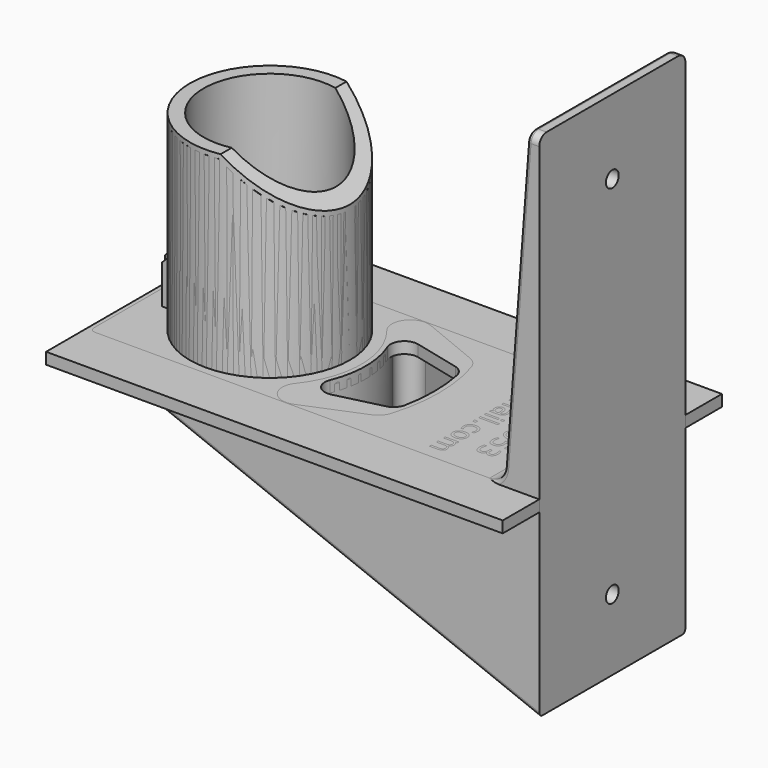
from build123d import *

# Parameters (mm, degrees)
SKETCH_R             = 20
PAD_DEPTH            = 2.5
SKETCH001_R          = 17.5
PAD001_DEPTH         = 42
POCKET_DEPTH         = 20.001
POCKET_DEPTH_BACK    = 20.001
SKETCH003_W          = 2
SKETCH003_H          = 21
POCKET001_DEPTH      = 2.3
SKETCH004_W          = 2
SKETCH004_H          = 11
PAD002_DEPTH         = 5
CHAMFER_SIZE         = 2
SKETCH005_R          = 26.580521
SKETCH005_R_2        = 20
POCKET002_DEPTH      = 11
SKETCH006_R          = 15
POCKET003_DEPTH      = 42
CHAMFER001_SIZE      = 1
SKETCH007_W          = 100
SKETCH007_H          = 60
PAD003_DEPTH         = 2.5
FILLET_R             = 3
SKETCH011_R          = 17.5
SKETCH011_R_2        = 14.5
PAD004_DEPTH         = 42
POCKET004_DEPTH      = 17.501
POCKET004_DEPTH_BACK = 17.501
PAD005_DEPTH         = 20
POCKET005_DEPTH      = 16
SKETCH015_R          = 1.75
POCKET006_DEPTH      = 100.001
SKETCH016_R          = 4.727312
POCKET007_DEPTH      = 96.701
FILLET001_R          = 4
FILLET002_R          = 2
PAD006_DEPTH         = 4.5
SKETCH018_W          = 4.5
SKETCH018_H          = 21
POCKET008_DEPTH      = 2.25
FILLET003_R          = 3
FILLET004_R          = 1
FILLET005_R          = 0.85
SKETCH019_W          = 3.005714
SKETCH019_H          = 0.492857
SKETCH019_W_2        = 0.628572
SKETCH019_W_3        = 4.171429
SKETCH019_W_4        = 0.685714
SKETCH019_H_2        = 0.565179
POCKET009_DEPTH      = 1


with BuildPart() as body:
    # Sketch → Pad (new body)
    with BuildSketch(Plane.XY):
        Circle(SKETCH_R)
    extrude(amount=-PAD_DEPTH)

    # Sketch001 → Pad001 (join)
    with BuildSketch(Plane.XY):
        Circle(SKETCH001_R)
    extrude(amount=PAD001_DEPTH)

    # Sketch002 → Pocket (cut, two sides)
    with BuildSketch(Plane.XZ) as pocket_sk:
        Polygon((3, 42), (17.5, 30), (20.433489, 30), (20.433489, 42), align=None)
        Polygon((-17.5, 39.4), (-16, 39.4), (-17.5, 26), align=None)
    extrude(amount=-POCKET_DEPTH, mode=Mode.SUBTRACT)
    extrude(pocket_sk.sketch, amount=POCKET_DEPTH_BACK, mode=Mode.SUBTRACT)

    # Sketch003 → Pocket001 (cut, symmetric)
    with BuildSketch(Plane.XZ):
        with Locations((-16.5, 10.5)):
            Rectangle(SKETCH003_W, SKETCH003_H)
    extrude(amount=POCKET001_DEPTH, both=True, mode=Mode.SUBTRACT)

    # Sketch004 (on Face12 of Pocket001) → Pad002 (join)
    with BuildSketch(Plane(origin=(-15.5, 0, 0), x_dir=(0, -1, 0), z_dir=(-1, 0, 0))):
        with Locations((-3.3, 5.5)):
            Rectangle(SKETCH004_W, SKETCH004_H)
        with Locations((3.3, 5.5)):
            Rectangle(SKETCH004_W, SKETCH004_H)
    extrude(amount=PAD002_DEPTH)

    # Chamfer
    chamfer_edges = [body.edges().sort_by_distance(p)[0] for p in [
        (-20.5, -3.3, 11),
        (-20.5, 3.3, 11),
    ]]
    chamfer(chamfer_edges, length=CHAMFER_SIZE)

    # Sketch005 → Pocket002 (cut)
    with BuildSketch(Plane.XY):
        Circle(SKETCH005_R)
        Circle(SKETCH005_R_2, mode=Mode.SUBTRACT)
    extrude(amount=POCKET002_DEPTH, mode=Mode.SUBTRACT)

    # Sketch006 (on Face12 of Pocket002) → Pocket003 (cut)
    with BuildSketch(Plane.XY.offset(42)):
        Circle(SKETCH006_R)
    extrude(amount=-POCKET003_DEPTH, mode=Mode.SUBTRACT)

    # Chamfer001
    chamfer001_edges = [body.edges().sort_by_distance(p)[0] for p in [
        (-17.5, 0, 42),
        (12.767731, -11.968084, 33.91636),
    ]]
    chamfer(chamfer001_edges, length=CHAMFER001_SIZE)

    # Sketch007 → Pad003 (join)
    with BuildSketch(Plane.XY):
        with Locations((25, 0)):
            Rectangle(SKETCH007_W, SKETCH007_H)
        with BuildLine():
            ThreePointArc((19.467521, -7.875), (21, 0), (19.467521, 7.875))
            ThreePointArc((22.962414, 11.91384), (19.980018, 10.963048), (19.467521, 7.875))
            Line((22.962414, 11.91384), (34.85685, 9))
            ThreePointArc((34.85685, -9), (36, 0), (34.85685, 9))
            Line((34.85685, -9), (22.962414, -11.91384))
            ThreePointArc((19.467521, -7.875), (19.980018, -10.963048), (22.962414, -11.91384))
        make_face(mode=Mode.SUBTRACT)
    extrude(amount=-PAD003_DEPTH)

    # Fillet
    fillet_edges = [body.edges().sort_by_distance(p)[0] for p in [
        (34.85685, 9, -1.25),
        (34.85685, -9, -1.25),
    ]]
    fillet(fillet_edges, radius=FILLET_R)


with BuildPart() as body001:
    # Sketch011 → Pad004 (new body)
    with BuildSketch(Plane.XY):
        Circle(SKETCH011_R)
        Circle(SKETCH011_R_2, mode=Mode.SUBTRACT)
    extrude(amount=PAD004_DEPTH)

    # Sketch012 → Pocket004 (cut, two sides)
    with BuildSketch(Plane.XZ) as pocket004_sk:
        Polygon((-17.863381, 39.4), (-17.863381, 26), (-15.863381, 39.4), align=None)
        Polygon((3, 42), (17.5, 30), (17.5, 42), align=None)
    extrude(amount=-POCKET004_DEPTH, mode=Mode.SUBTRACT)
    extrude(pocket004_sk.sketch, amount=POCKET004_DEPTH_BACK, mode=Mode.SUBTRACT)

    # Sketch013 → Pad005 (join, symmetric)
    with BuildSketch(Plane.XZ):
        Polygon((-25, 0), (-25, -2.5), (75, -42), (75, 0), (75, 70), (72.5, 70), (67.167522, 0), align=None)
    extrude(amount=PAD005_DEPTH, both=True)

    # Sketch014 → Pocket005 (cut)
    with BuildSketch(Plane.XY):
        with BuildLine():
            ThreePointArc((19.874379, 17.775212), (16.333408, 16.797884), (16.39312, 13.125))
            ThreePointArc((16.39312, -13.125), (21, 0), (16.39312, 13.125))
            ThreePointArc((16.39312, -13.125), (16.333408, -16.797884), (19.874379, -17.775212))
            Line((19.874379, -17.775212), (33.941125, -12))
            ThreePointArc((33.941125, -12), (36, 0), (33.941125, 12))
            Line((19.874379, 17.775212), (33.941125, 12))
        make_face()
    extrude(amount=-POCKET005_DEPTH, mode=Mode.SUBTRACT)

    # Sketch015 (on Face21 of Pocket005) → Pocket006 (cut, through all)
    with BuildSketch(Plane.YZ.offset(75)):
        with Locations((0, 53.638371)):
            Circle(SKETCH015_R)
        with Locations((0, -26.428391)):
            Circle(SKETCH015_R)
    extrude(amount=-POCKET006_DEPTH, mode=Mode.SUBTRACT)

    # Sketch016 (on Face22 of Pocket006) → Pocket007 (cut, through all)
    with BuildSketch(Plane.YZ.offset(71.7)):
        with Locations((0, 53.638371)):
            Circle(SKETCH016_R)
        with Locations((0, -26.428391)):
            Circle(SKETCH016_R)
    extrude(amount=-POCKET007_DEPTH, mode=Mode.SUBTRACT)

    # Fillet001
    fillet001_edges = [body001.edges().sort_by_distance(p)[0] for p in [
        (67.167522, 0, 0),
    ]]
    fillet(fillet001_edges, radius=FILLET001_R)

    # Fillet002
    fillet002_edges = [body001.edges().sort_by_distance(p)[0] for p in [
        (73.75, -20, 70),
        (73.75, 20, 70),
        (-25, 20, -1.25),
        (-25, -20, -1.25),
    ]]
    fillet(fillet002_edges, radius=FILLET002_R)

    # Sketch017 → Pad006 (join, symmetric)
    with BuildSketch(Plane.XZ):
        Polygon((-17.5, 11), (-20, 8.5), (-20, 0), (-17.5, 0), (-16.353695, 0), (-16.353695, 10.941071), align=None)
    extrude(amount=PAD006_DEPTH, both=True)

    # Sketch018 → Pocket008 (cut, symmetric)
    with BuildSketch(Plane.XZ):
        with Locations((-17.75, 10.5)):
            Rectangle(SKETCH018_W, SKETCH018_H)
    extrude(amount=POCKET008_DEPTH, both=True, mode=Mode.SUBTRACT)

    # Fillet003
    fillet003_edges = [body001.edges().sort_by_distance(p)[0] for p in [
        (33.941125, 12, -8),
        (33.941125, -12, -8),
    ]]
    fillet(fillet003_edges, radius=FILLET003_R)

    # Fillet004
    fillet004_edges = [body001.edges().sort_by_distance(p)[0] for p in [
        (21, 0, 0),
    ]]
    fillet(fillet004_edges, radius=FILLET004_R)

    # Fillet005
    fillet005_edges = [body001.edges().sort_by_distance(p)[0] for p in [
        (26, 20, -22.645),
        (20.230323, 20, 0),
    ]]
    fillet(fillet005_edges, radius=FILLET005_R)

    # Sketch019 → Pocket009 (cut)
    with BuildSketch(Plane.XY):
        with BuildLine():
            Line((57.914286, 9.867857), (57.445714, 9.867857))
            add(Edge.make_bspline(
                [(57.445714, 9.867857), (57.554286, 10.076786), (57.608571, 10.301786)],
                knots=[0, 0, 0, 1, 1, 1], degree=2))
            add(Edge.make_bspline(
                [(57.608571, 10.301786), (57.662857, 10.526786), (57.662857, 10.767857)],
                knots=[0, 0, 0, 1, 1, 1], degree=2))
            add(Edge.make_bspline(
                [(57.662857, 10.767857), (57.662857, 11.134821), (57.549821, 11.318393)],
                knots=[0, 0, 0, 1, 1, 1], degree=2))
            add(Edge.make_bspline(
                [(57.549821, 11.318393), (57.436964, 11.501786), (57.211071, 11.501786)],
                knots=[0, 0, 0, 1, 1, 1], degree=2))
            add(Edge.make_bspline(
                [(57.211071, 11.501786), (57.038929, 11.501786), (56.940714, 11.370536)],
                knots=[0, 0, 0, 1, 1, 1], degree=2))
            add(Edge.make_bspline(
                [(56.940714, 11.370536), (56.842679, 11.239286), (56.753929, 10.842857)],
                knots=[0, 0, 0, 1, 1, 1], degree=2))
            Line((56.753929, 10.842857), (56.716429, 10.674107))
            add(Edge.make_bspline(
                [(56.716429, 10.674107), (56.60375, 10.149107), (56.398571, 9.928214)],
                knots=[0, 0, 0, 1, 1, 1], degree=2))
            add(Edge.make_bspline(
                [(56.398571, 9.928214), (56.193571, 9.707143), (55.82625, 9.707143)],
                knots=[0, 0, 0, 1, 1, 1], degree=2))
            add(Edge.make_bspline(
                [(55.82625, 9.707143), (55.408036, 9.707143), (55.163929, 10.038036)],
                knots=[0, 0, 0, 1, 1, 1], degree=2))
            add(Edge.make_bspline(
                [(55.163929, 10.038036), (54.92, 10.36875), (54.92, 10.947321)],
                knots=[0, 0, 0, 1, 1, 1], degree=2))
            add(Edge.make_bspline(
                [(54.92, 10.947321), (54.92, 11.188393), (54.965714, 11.449643)],
                knots=[0, 0, 0, 1, 1, 1], degree=2))
            add(Edge.make_bspline(
                [(54.965714, 11.449643), (55.011429, 11.710714), (55.102857, 12)],
                knots=[0, 0, 0, 1, 1, 1], degree=2))
            Line((55.102857, 12), (55.617143, 12))
            add(Edge.make_bspline(
                [(55.617143, 12), (55.474286, 11.726786), (55.402857, 11.461607)],
                knots=[0, 0, 0, 1, 1, 1], degree=2))
            add(Edge.make_bspline(
                [(55.402857, 11.461607), (55.331429, 11.196428), (55.331429, 10.936607)],
                knots=[0, 0, 0, 1, 1, 1], degree=2))
            add(Edge.make_bspline(
                [(55.331429, 10.936607), (55.331429, 10.588393), (55.450893, 10.400893)],
                knots=[0, 0, 0, 1, 1, 1], degree=2))
            add(Edge.make_bspline(
                [(55.450893, 10.400893), (55.570357, 10.213393), (55.788036, 10.213393)],
                knots=[0, 0, 0, 1, 1, 1], degree=2))
            add(Edge.make_bspline(
                [(55.788036, 10.213393), (55.989286, 10.213393), (56.096786, 10.34875)],
                knots=[0, 0, 0, 1, 1, 1], degree=2))
            add(Edge.make_bspline(
                [(56.096786, 10.34875), (56.204286, 10.483928), (56.303571, 10.941964)],
                knots=[0, 0, 0, 1, 1, 1], degree=2))
            Line((56.303571, 10.941964), (56.34375, 11.113393))
            add(Edge.make_bspline(
                [(56.34375, 11.113393), (56.440357, 11.571428), (56.640179, 11.775)],
                knots=[0, 0, 0, 1, 1, 1], degree=2))
            add(Edge.make_bspline(
                [(56.640179, 11.775), (56.840179, 11.978571), (57.188929, 11.978571)],
                knots=[0, 0, 0, 1, 1, 1], degree=2))
            add(Edge.make_bspline(
                [(57.188929, 11.978571), (57.612857, 11.978571), (57.843571, 11.678571)],
                knots=[0, 0, 0, 1, 1, 1], degree=2))
            add(Edge.make_bspline(
                [(57.843571, 11.678571), (58.074286, 11.378571), (58.074286, 10.826786)],
                knots=[0, 0, 0, 1, 1, 1], degree=2))
            add(Edge.make_bspline(
                [(58.074286, 10.826786), (58.074286, 10.553571), (58.034286, 10.3125)],
                knots=[0, 0, 0, 1, 1, 1], degree=2))
            add(Edge.make_bspline(
                [(58.034286, 10.3125), (57.994286, 10.071428), (57.914286, 9.867857)],
                knots=[0, 0, 0, 1, 1, 1], degree=2))
        make_face()
        with BuildLine():
            Line((56.625714, 6.357143), (56.382857, 6.357143))
            Line((56.382857, 6.357143), (56.382857, 8.623214))
            add(Edge.make_bspline(
                [(56.382857, 8.623214), (55.874821, 8.591071), (55.60875, 8.316607)],
                knots=[0, 0, 0, 1, 1, 1], degree=2))
            add(Edge.make_bspline(
                [(55.60875, 8.316607), (55.342857, 8.041964), (55.342857, 7.551786)],
                knots=[0, 0, 0, 1, 1, 1], degree=2))
            add(Edge.make_bspline(
                [(55.342857, 7.551786), (55.342857, 7.267857), (55.411429, 7.001428)],
                knots=[0, 0, 0, 1, 1, 1], degree=2))
            add(Edge.make_bspline(
                [(55.411429, 7.001428), (55.48, 6.734821), (55.617143, 6.472321)],
                knots=[0, 0, 0, 1, 1, 1], degree=2))
            Line((55.617143, 6.472321), (55.148571, 6.472321))
            add(Edge.make_bspline(
                [(55.148571, 6.472321), (55.036964, 6.7375), (54.978571, 7.016071)],
                knots=[0, 0, 0, 1, 1, 1], degree=2))
            add(Edge.make_bspline(
                [(54.978571, 7.016071), (54.92, 7.294643), (54.92, 7.58125)],
                knots=[0, 0, 0, 1, 1, 1], degree=2))
            add(Edge.make_bspline(
                [(54.92, 7.58125), (54.92, 8.299107), (55.338393, 8.718393)],
                knots=[0, 0, 0, 1, 1, 1], degree=2))
            add(Edge.make_bspline(
                [(55.338393, 8.718393), (55.756786, 9.1375), (56.470357, 9.1375)],
                knots=[0, 0, 0, 1, 1, 1], degree=2))
            add(Edge.make_bspline(
                [(56.470357, 9.1375), (57.207857, 9.1375), (57.641071, 8.739821)],
                knots=[0, 0, 0, 1, 1, 1], degree=2))
            add(Edge.make_bspline(
                [(57.641071, 8.739821), (58.074286, 8.341964), (58.074286, 7.666964)],
                knots=[0, 0, 0, 1, 1, 1], degree=2))
            add(Edge.make_bspline(
                [(58.074286, 7.666964), (58.074286, 7.061607), (57.684643, 6.709464)],
                knots=[0, 0, 0, 1, 1, 1], degree=2))
            add(Edge.make_bspline(
                [(57.684643, 6.709464), (57.295179, 6.357143), (56.625714, 6.357143)],
                knots=[0, 0, 0, 1, 1, 1], degree=2))
        make_face()
        with BuildLine():
            add(Edge.make_bspline(
                [(56.771429, 6.85), (57.172857, 6.855357), (57.412143, 7.076428)],
                knots=[0, 0, 0, 1, 1, 1], degree=2))
            add(Edge.make_bspline(
                [(57.412143, 7.076428), (57.651429, 7.297321), (57.651429, 7.661607)],
                knots=[0, 0, 0, 1, 1, 1], degree=2))
            add(Edge.make_bspline(
                [(57.651429, 7.661607), (57.651429, 8.074107), (57.42, 8.321964)],
                knots=[0, 0, 0, 1, 1, 1], degree=2))
            add(Edge.make_bspline(
                [(57.42, 8.321964), (57.18875, 8.569643), (56.76875, 8.607143)],
                knots=[0, 0, 0, 1, 1, 1], degree=2))
            Line((56.76875, 8.607143), (56.771429, 6.85))
        make_face(mode=Mode.SUBTRACT)
        Polygon((59.171429, 5.570536), (59.171429, 5.075), (56.709464, 5.075), (58.005714, 3.604464), (58.005714, 2.975), (56.599464, 4.566071), (55, 2.908036), (55, 3.550893), (56.468036, 5.075), (55, 5.075), (55, 5.570536), align=None)
        with BuildLine():
            Line((58.862857, 1.887143), (58.005714, 1.887143))
            Line((58.005714, 1.887143), (58.005714, 0.871964))
            Line((58.005714, 0.871964), (57.617143, 0.871964))
            Line((57.617143, 0.871964), (57.617143, 1.887143))
            Line((57.617143, 1.887143), (55.987679, 1.887143))
            add(Edge.make_bspline(
                [(55.987679, 1.887143), (55.620536, 1.887143), (55.515893, 1.786786)],
                knots=[0, 0, 0, 1, 1, 1], degree=2))
            add(Edge.make_bspline(
                [(55.515893, 1.786786), (55.411429, 1.68625), (55.411429, 1.378214)],
                knots=[0, 0, 0, 1, 1, 1], degree=2))
            Line((55.411429, 1.378214), (55.411429, 0.871964))
            Line((55.411429, 0.871964), (55, 0.871964))
            Line((55, 0.871964), (55, 1.378214))
            add(Edge.make_bspline(
                [(55, 1.378214), (55, 1.94875), (55.212679, 2.165714)],
                knots=[0, 0, 0, 1, 1, 1], degree=2))
            add(Edge.make_bspline(
                [(55.212679, 2.165714), (55.425536, 2.382678), (55.987679, 2.382678)],
                knots=[0, 0, 0, 1, 1, 1], degree=2))
            Line((55.987679, 2.382678), (57.617143, 2.382678))
            Line((57.617143, 2.382678), (57.617143, 2.744286))
            Line((57.617143, 2.744286), (58.005714, 2.744286))
            Line((58.005714, 2.744286), (58.005714, 2.382678))
            Line((58.005714, 2.382678), (58.862857, 2.382678))
            Line((58.862857, 2.382678), (58.862857, 1.887143))
        make_face()
        Polygon((55.457143, 0.062678), (55.457143, -0.82125), (58.508571, -0.82125), (58.314286, 0.140357), (58.805714, 0.140357), (59, -0.815893), (59, -1.356964), (55.457143, -1.356964), (55.457143, -2.240893), (55, -2.240893), (55, 0.062678), align=None)
        with BuildLine():
            Line((55.08, -3.345357), (55.571429, -3.345357))
            add(Edge.make_bspline(
                [(55.571429, -3.345357), (55.476964, -3.548929), (55.426964, -3.757857)],
                knots=[0, 0, 0, 1, 1, 1], degree=2))
            add(Edge.make_bspline(
                [(55.426964, -3.757857), (55.377143, -3.966786), (55.377143, -4.167679)],
                knots=[0, 0, 0, 1, 1, 1], degree=2))
            add(Edge.make_bspline(
                [(55.377143, -4.167679), (55.377143, -4.703393), (55.738393, -4.985893)],
                knots=[0, 0, 0, 1, 1, 1], degree=2))
            add(Edge.make_bspline(
                [(55.738393, -4.985893), (56.099821, -5.268572), (56.836071, -5.30875)],
                knots=[0, 0, 0, 1, 1, 1], degree=2))
            add(Edge.make_bspline(
                [(56.836071, -5.30875), (56.606071, -5.153393), (56.483036, -4.915)],
                knots=[0, 0, 0, 1, 1, 1], degree=2))
            add(Edge.make_bspline(
                [(56.483036, -4.915), (56.36, -4.676607), (56.36, -4.387322)],
                knots=[0, 0, 0, 1, 1, 1], degree=2))
            add(Edge.make_bspline(
                [(56.36, -4.387322), (56.36, -3.787322), (56.721964, -3.437679)],
                knots=[0, 0, 0, 1, 1, 1], degree=2))
            add(Edge.make_bspline(
                [(56.721964, -3.437679), (57.083929, -3.088214), (57.711607, -3.088214)],
                knots=[0, 0, 0, 1, 1, 1], degree=2))
            add(Edge.make_bspline(
                [(57.711607, -3.088214), (58.326071, -3.088214), (58.697321, -3.4525)],
                knots=[0, 0, 0, 1, 1, 1], degree=2))
            add(Edge.make_bspline(
                [(58.697321, -3.4525), (59.068571, -3.816786), (59.068571, -4.422143)],
                knots=[0, 0, 0, 1, 1, 1], degree=2))
            add(Edge.make_bspline(
                [(59.068571, -4.422143), (59.068571, -5.115893), (58.536964, -5.481429)],
                knots=[0, 0, 0, 1, 1, 1], degree=2))
            add(Edge.make_bspline(
                [(58.536964, -5.481429), (58.005357, -5.847143), (56.993036, -5.847143)],
                knots=[0, 0, 0, 1, 1, 1], degree=2))
            add(Edge.make_bspline(
                [(56.993036, -5.847143), (56.0475, -5.847143), (55.48375, -5.398393)],
                knots=[0, 0, 0, 1, 1, 1], degree=2))
            add(Edge.make_bspline(
                [(55.48375, -5.398393), (54.92, -4.949822), (54.92, -4.191786)],
                knots=[0, 0, 0, 1, 1, 1], degree=2))
            add(Edge.make_bspline(
                [(54.92, -4.191786), (54.92, -3.988214), (54.96, -3.779286)],
                knots=[0, 0, 0, 1, 1, 1], degree=2))
            add(Edge.make_bspline(
                [(54.96, -3.779286), (55, -3.570357), (55.08, -3.345357)],
                knots=[0, 0, 0, 1, 1, 1], degree=2))
        make_face()
        with BuildLine():
            add(Edge.make_bspline(
                [(56.782857, -4.422143), (56.782857, -4.786429), (57.030179, -4.999286)],
                knots=[0, 0, 0, 1, 1, 1], degree=2))
            add(Edge.make_bspline(
                [(57.030179, -4.999286), (57.277679, -5.212322), (57.708571, -5.212322)],
                knots=[0, 0, 0, 1, 1, 1], degree=2))
            add(Edge.make_bspline(
                [(57.708571, -5.212322), (58.136786, -5.212322), (58.385536, -4.999286)],
                knots=[0, 0, 0, 1, 1, 1], degree=2))
            add(Edge.make_bspline(
                [(58.385536, -4.999286), (58.634286, -4.786429), (58.634286, -4.422143)],
                knots=[0, 0, 0, 1, 1, 1], degree=2))
            add(Edge.make_bspline(
                [(58.634286, -4.422143), (58.634286, -4.057857), (58.385536, -3.844822)],
                knots=[0, 0, 0, 1, 1, 1], degree=2))
            add(Edge.make_bspline(
                [(58.385536, -3.844822), (58.136786, -3.631964), (57.708571, -3.631964)],
                knots=[0, 0, 0, 1, 1, 1], degree=2))
            add(Edge.make_bspline(
                [(57.708571, -3.631964), (57.277679, -3.631964), (57.030179, -3.844822)],
                knots=[0, 0, 0, 1, 1, 1], degree=2))
            add(Edge.make_bspline(
                [(57.030179, -3.844822), (56.782857, -4.057857), (56.782857, -4.422143)],
                knots=[0, 0, 0, 1, 1, 1], degree=2))
        make_face(mode=Mode.SUBTRACT)
        with BuildLine():
            Line((59, -6.820357), (59, -8.944464))
            Line((59, -8.944464), (58.542857, -8.944464))
            Line((58.542857, -8.944464), (58.542857, -7.315893))
            Line((58.542857, -7.315893), (57.559286, -7.315893))
            add(Edge.make_bspline(
                [(57.559286, -7.315893), (57.599643, -7.43375), (57.619821, -7.551607)],
                knots=[0, 0, 0, 1, 1, 1], degree=2))
            add(Edge.make_bspline(
                [(57.619821, -7.551607), (57.64, -7.669464), (57.64, -7.787322)],
                knots=[0, 0, 0, 1, 1, 1], degree=2))
            add(Edge.make_bspline(
                [(57.64, -7.787322), (57.64, -8.456964), (57.273214, -8.848036)],
                knots=[0, 0, 0, 1, 1, 1], degree=2))
            add(Edge.make_bspline(
                [(57.273214, -8.848036), (56.906429, -9.239107), (56.28, -9.239107)],
                knots=[0, 0, 0, 1, 1, 1], degree=2))
            add(Edge.make_bspline(
                [(56.28, -9.239107), (55.634821, -9.239107), (55.277321, -8.837322)],
                knots=[0, 0, 0, 1, 1, 1], degree=2))
            add(Edge.make_bspline(
                [(55.277321, -8.837322), (54.92, -8.435536), (54.92, -7.704286)],
                knots=[0, 0, 0, 1, 1, 1], degree=2))
            add(Edge.make_bspline(
                [(54.92, -7.704286), (54.92, -7.4525), (54.962857, -7.19125)],
                knots=[0, 0, 0, 1, 1, 1], degree=2))
            add(Edge.make_bspline(
                [(54.962857, -7.19125), (55.005714, -6.930179), (55.091429, -6.651607)],
                knots=[0, 0, 0, 1, 1, 1], degree=2))
            Line((55.091429, -6.651607), (55.64, -6.651607))
            add(Edge.make_bspline(
                [(55.64, -6.651607), (55.507143, -6.892679), (55.442143, -7.149822)],
                knots=[0, 0, 0, 1, 1, 1], degree=2))
            add(Edge.make_bspline(
                [(55.442143, -7.149822), (55.377143, -7.406964), (55.377143, -7.693572)],
                knots=[0, 0, 0, 1, 1, 1], degree=2))
            add(Edge.make_bspline(
                [(55.377143, -7.693572), (55.377143, -8.156964), (55.620179, -8.4275)],
                knots=[0, 0, 0, 1, 1, 1], degree=2))
            add(Edge.make_bspline(
                [(55.620179, -8.4275), (55.863214, -8.698036), (56.28, -8.698036)],
                knots=[0, 0, 0, 1, 1, 1], degree=2))
            add(Edge.make_bspline(
                [(56.28, -8.698036), (56.696786, -8.698036), (56.939821, -8.4275)],
                knots=[0, 0, 0, 1, 1, 1], degree=2))
            add(Edge.make_bspline(
                [(56.939821, -8.4275), (57.182857, -8.156964), (57.182857, -7.693572)],
                knots=[0, 0, 0, 1, 1, 1], degree=2))
            add(Edge.make_bspline(
                [(57.182857, -7.693572), (57.182857, -7.476607), (57.135536, -7.260893)],
                knots=[0, 0, 0, 1, 1, 1], degree=2))
            add(Edge.make_bspline(
                [(57.135536, -7.260893), (57.088393, -7.045357), (56.988571, -6.820357)],
                knots=[0, 0, 0, 1, 1, 1], degree=2))
            Line((56.988571, -6.820357), (59, -6.820357))
        make_face()
        with BuildLine():
            add(Edge.make_bspline(
                [(57.150179, -11.94), (57.067321, -12.328393), (56.805179, -12.546607)],
                knots=[0, 0, 0, 1, 1, 1], degree=2))
            add(Edge.make_bspline(
                [(56.805179, -12.546607), (56.543214, -12.765), (56.158036, -12.765)],
                knots=[0, 0, 0, 1, 1, 1], degree=2))
            add(Edge.make_bspline(
                [(56.158036, -12.765), (55.567143, -12.765), (55.243571, -12.357857)],
                knots=[0, 0, 0, 1, 1, 1], degree=2))
            add(Edge.make_bspline(
                [(55.243571, -12.357857), (54.92, -11.950714), (54.92, -11.200714)],
                knots=[0, 0, 0, 1, 1, 1], degree=2))
            add(Edge.make_bspline(
                [(54.92, -11.200714), (54.92, -10.948929), (54.968571, -10.682322)],
                knots=[0, 0, 0, 1, 1, 1], degree=2))
            add(Edge.make_bspline(
                [(54.968571, -10.682322), (55.017143, -10.415893), (55.114286, -10.131964)],
                knots=[0, 0, 0, 1, 1, 1], degree=2))
            Line((55.114286, -10.131964), (55.64, -10.131964))
            add(Edge.make_bspline(
                [(55.64, -10.131964), (55.509821, -10.356964), (55.443393, -10.624822)],
                knots=[0, 0, 0, 1, 1, 1], degree=2))
            add(Edge.make_bspline(
                [(55.443393, -10.624822), (55.377143, -10.892679), (55.377143, -11.184643)],
                knots=[0, 0, 0, 1, 1, 1], degree=2))
            add(Edge.make_bspline(
                [(55.377143, -11.184643), (55.377143, -11.693572), (55.577143, -11.96)],
                knots=[0, 0, 0, 1, 1, 1], degree=2))
            add(Edge.make_bspline(
                [(55.577143, -11.96), (55.777321, -12.226607), (56.158929, -12.226607)],
                knots=[0, 0, 0, 1, 1, 1], degree=2))
            add(Edge.make_bspline(
                [(56.158929, -12.226607), (56.511071, -12.226607), (56.709821, -11.97875)],
                knots=[0, 0, 0, 1, 1, 1], degree=2))
            add(Edge.make_bspline(
                [(56.709821, -11.97875), (56.908571, -11.731072), (56.908571, -11.289107)],
                knots=[0, 0, 0, 1, 1, 1], degree=2))
            Line((56.908571, -11.289107), (56.908571, -10.823036))
            Line((56.908571, -10.823036), (57.354286, -10.823036))
            Line((57.354286, -10.823036), (57.354286, -11.310536))
            add(Edge.make_bspline(
                [(57.354286, -11.310536), (57.354286, -11.709643), (57.51375, -11.92125)],
                knots=[0, 0, 0, 1, 1, 1], degree=2))
            add(Edge.make_bspline(
                [(57.51375, -11.92125), (57.673214, -12.132857), (57.973393, -12.132857)],
                knots=[0, 0, 0, 1, 1, 1], degree=2))
            add(Edge.make_bspline(
                [(57.973393, -12.132857), (58.281786, -12.132857), (58.446607, -11.914464)],
                knots=[0, 0, 0, 1, 1, 1], degree=2))
            add(Edge.make_bspline(
                [(58.446607, -11.914464), (58.611429, -11.69625), (58.611429, -11.289107)],
                knots=[0, 0, 0, 1, 1, 1], degree=2))
            add(Edge.make_bspline(
                [(58.611429, -11.289107), (58.611429, -11.066786), (58.564107, -10.812322)],
                knots=[0, 0, 0, 1, 1, 1], degree=2))
            add(Edge.make_bspline(
                [(58.564107, -10.812322), (58.516964, -10.557857), (58.417143, -10.2525)],
                knots=[0, 0, 0, 1, 1, 1], degree=2))
            Line((58.417143, -10.2525), (58.897143, -10.2525))
            add(Edge.make_bspline(
                [(58.897143, -10.2525), (58.982857, -10.560536), (59.025714, -10.829643)],
                knots=[0, 0, 0, 1, 1, 1], degree=2))
            add(Edge.make_bspline(
                [(59.025714, -10.829643), (59.068571, -11.098929), (59.068571, -11.337322)],
                knots=[0, 0, 0, 1, 1, 1], degree=2))
            add(Edge.make_bspline(
                [(59.068571, -11.337322), (59.068571, -11.953393), (58.788214, -12.312322)],
                knots=[0, 0, 0, 1, 1, 1], degree=2))
            add(Edge.make_bspline(
                [(58.788214, -12.312322), (58.507857, -12.67125), (58.030179, -12.67125)],
                knots=[0, 0, 0, 1, 1, 1], degree=2))
            add(Edge.make_bspline(
                [(58.030179, -12.67125), (57.6975, -12.67125), (57.468036, -12.481072)],
                knots=[0, 0, 0, 1, 1, 1], degree=2))
            add(Edge.make_bspline(
                [(57.468036, -12.481072), (57.23875, -12.290893), (57.150179, -11.94)],
                knots=[0, 0, 0, 1, 1, 1], degree=2))
        make_face()
        with BuildLine():
            add(Edge.make_bspline(
                [(48.658393, 13.860714), (48.449464, 14.021428), (48.350357, 14.229107)],
                knots=[0, 0, 0, 1, 1, 1], degree=2))
            add(Edge.make_bspline(
                [(48.350357, 14.229107), (48.251429, 14.436607), (48.251429, 14.7125)],
                knots=[0, 0, 0, 1, 1, 1], degree=2))
            add(Edge.make_bspline(
                [(48.251429, 14.7125), (48.251429, 15.173214), (48.582143, 15.46125)],
                knots=[0, 0, 0, 1, 1, 1], degree=2))
            add(Edge.make_bspline(
                [(48.582143, 15.46125), (48.913036, 15.749107), (49.444464, 15.749107)],
                knots=[0, 0, 0, 1, 1, 1], degree=2))
            add(Edge.make_bspline(
                [(49.444464, 15.749107), (49.975714, 15.749107), (50.307857, 15.459821)],
                knots=[0, 0, 0, 1, 1, 1], degree=2))
            add(Edge.make_bspline(
                [(50.307857, 15.459821), (50.64, 15.170536), (50.64, 14.7125)],
                knots=[0, 0, 0, 1, 1, 1], degree=2))
            add(Edge.make_bspline(
                [(50.64, 14.7125), (50.64, 14.436607), (50.539464, 14.227678)],
                knots=[0, 0, 0, 1, 1, 1], degree=2))
            add(Edge.make_bspline(
                [(50.539464, 14.227678), (50.439107, 14.01875), (50.235536, 13.860714)],
                knots=[0, 0, 0, 1, 1, 1], degree=2))
            Line((50.235536, 13.860714), (50.582857, 13.860714))
            Line((50.582857, 13.860714), (50.582857, 13.477678))
            Line((50.582857, 13.477678), (48.64, 13.477678))
            add(Edge.make_bspline(
                [(48.64, 13.477678), (48.698393, 13.086607), (48.994464, 12.865714)],
                knots=[0, 0, 0, 1, 1, 1], degree=2))
            add(Edge.make_bspline(
                [(48.994464, 12.865714), (49.290714, 12.644643), (49.760893, 12.644643)],
                knots=[0, 0, 0, 1, 1, 1], degree=2))
            add(Edge.make_bspline(
                [(49.760893, 12.644643), (50.045179, 12.644643), (50.294821, 12.729107)],
                knots=[0, 0, 0, 1, 1, 1], degree=2))
            add(Edge.make_bspline(
                [(50.294821, 12.729107), (50.544643, 12.813393), (50.757143, 12.984821)],
                knots=[0, 0, 0, 1, 1, 1], degree=2))
            add(Edge.make_bspline(
                [(50.757143, 12.984821), (51.105, 13.263393), (51.289643, 13.663928)],
                knots=[0, 0, 0, 1, 1, 1], degree=2))
            add(Edge.make_bspline(
                [(51.289643, 13.663928), (51.474286, 14.064286), (51.474286, 14.535714)],
                knots=[0, 0, 0, 1, 1, 1], degree=2))
            add(Edge.make_bspline(
                [(51.474286, 14.535714), (51.474286, 14.865178), (51.3875, 15.167857)],
                knots=[0, 0, 0, 1, 1, 1], degree=2))
            add(Edge.make_bspline(
                [(51.3875, 15.167857), (51.300714, 15.470536), (51.129821, 15.727678)],
                knots=[0, 0, 0, 1, 1, 1], degree=2))
            add(Edge.make_bspline(
                [(51.129821, 15.727678), (50.8575, 16.148214), (50.415536, 16.385357)],
                knots=[0, 0, 0, 1, 1, 1], degree=2))
            add(Edge.make_bspline(
                [(50.415536, 16.385357), (49.97375, 16.622321), (49.458393, 16.622321)],
                knots=[0, 0, 0, 1, 1, 1], degree=2))
            add(Edge.make_bspline(
                [(49.458393, 16.622321), (49.033929, 16.622321), (48.662857, 16.468393)],
                knots=[0, 0, 0, 1, 1, 1], degree=2))
            add(Edge.make_bspline(
                [(48.662857, 16.468393), (48.291786, 16.314286), (48.00875, 16.022321)],
                knots=[0, 0, 0, 1, 1, 1], degree=2))
            add(Edge.make_bspline(
                [(48.00875, 16.022321), (47.731071, 15.741071), (47.585536, 15.371428)],
                knots=[0, 0, 0, 1, 1, 1], degree=2))
            add(Edge.make_bspline(
                [(47.585536, 15.371428), (47.44, 15.001786), (47.44, 14.58125)],
                knots=[0, 0, 0, 1, 1, 1], degree=2))
            add(Edge.make_bspline(
                [(47.44, 14.58125), (47.44, 14.235714), (47.555536, 13.902321)],
                knots=[0, 0, 0, 1, 1, 1], degree=2))
            add(Edge.make_bspline(
                [(47.555536, 13.902321), (47.670893, 13.56875), (47.885714, 13.290178)],
                knots=[0, 0, 0, 1, 1, 1], degree=2))
            Line((47.885714, 13.290178), (47.588571, 13.049107))
            add(Edge.make_bspline(
                [(47.588571, 13.049107), (47.328036, 13.383928), (47.189821, 13.779107)],
                knots=[0, 0, 0, 1, 1, 1], degree=2))
            add(Edge.make_bspline(
                [(47.189821, 13.779107), (47.051429, 14.174107), (47.051429, 14.58125)],
                knots=[0, 0, 0, 1, 1, 1], degree=2))
            add(Edge.make_bspline(
                [(47.051429, 14.58125), (47.051429, 15.076786), (47.226786, 15.516071)],
                knots=[0, 0, 0, 1, 1, 1], degree=2))
            add(Edge.make_bspline(
                [(47.226786, 15.516071), (47.401964, 15.955357), (47.736429, 16.298214)],
                knots=[0, 0, 0, 1, 1, 1], degree=2))
            add(Edge.make_bspline(
                [(47.736429, 16.298214), (48.070893, 16.641071), (48.511071, 16.820536)],
                knots=[0, 0, 0, 1, 1, 1], degree=2))
            add(Edge.make_bspline(
                [(48.511071, 16.820536), (48.951429, 17), (49.457143, 17)],
                knots=[0, 0, 0, 1, 1, 1], degree=2))
            add(Edge.make_bspline(
                [(49.457143, 17), (49.944107, 17), (50.385714, 16.817857)],
                knots=[0, 0, 0, 1, 1, 1], degree=2))
            add(Edge.make_bspline(
                [(50.385714, 16.817857), (50.827321, 16.635714), (51.161786, 16.298214)],
                knots=[0, 0, 0, 1, 1, 1], degree=2))
            add(Edge.make_bspline(
                [(51.161786, 16.298214), (51.501607, 15.952678), (51.682143, 15.5)],
                knots=[0, 0, 0, 1, 1, 1], degree=2))
            add(Edge.make_bspline(
                [(51.682143, 15.5), (51.862857, 15.047321), (51.862857, 14.541071)],
                knots=[0, 0, 0, 1, 1, 1], degree=2))
            add(Edge.make_bspline(
                [(51.862857, 14.541071), (51.862857, 13.973214), (51.630714, 13.487143)],
                knots=[0, 0, 0, 1, 1, 1], degree=2))
            add(Edge.make_bspline(
                [(51.630714, 13.487143), (51.39875, 13.000893), (50.971786, 12.671428)],
                knots=[0, 0, 0, 1, 1, 1], degree=2))
            add(Edge.make_bspline(
                [(50.971786, 12.671428), (50.710357, 12.470536), (50.403571, 12.364821)],
                knots=[0, 0, 0, 1, 1, 1], degree=2))
            add(Edge.make_bspline(
                [(50.403571, 12.364821), (50.096786, 12.258928), (49.768571, 12.258928)],
                knots=[0, 0, 0, 1, 1, 1], degree=2))
            add(Edge.make_bspline(
                [(49.768571, 12.258928), (49.066964, 12.258928), (48.661429, 12.684821)],
                knots=[0, 0, 0, 1, 1, 1], degree=2))
            add(Edge.make_bspline(
                [(48.661429, 12.684821), (48.256071, 13.110714), (48.24, 13.860714)],
                knots=[0, 0, 0, 1, 1, 1], degree=2))
            Line((48.24, 13.860714), (48.658393, 13.860714))
        make_face()
        with BuildLine():
            add(Edge.make_bspline(
                [(49.446964, 15.320536), (49.069821, 15.320536), (48.854821, 15.130357)],
                knots=[0, 0, 0, 1, 1, 1], degree=2))
            add(Edge.make_bspline(
                [(48.854821, 15.130357), (48.64, 14.940178), (48.64, 14.608036)],
                knots=[0, 0, 0, 1, 1, 1], degree=2))
            add(Edge.make_bspline(
                [(48.64, 14.608036), (48.64, 14.278571), (48.85625, 14.089821)],
                knots=[0, 0, 0, 1, 1, 1], degree=2))
            add(Edge.make_bspline(
                [(48.85625, 14.089821), (49.0725, 13.900893), (49.446964, 13.900893)],
                knots=[0, 0, 0, 1, 1, 1], degree=2))
            add(Edge.make_bspline(
                [(49.446964, 13.900893), (49.81625, 13.900893), (50.03375, 14.09375)],
                knots=[0, 0, 0, 1, 1, 1], degree=2))
            add(Edge.make_bspline(
                [(50.03375, 14.09375), (50.251429, 14.286607), (50.251429, 14.613393)],
                knots=[0, 0, 0, 1, 1, 1], degree=2))
            add(Edge.make_bspline(
                [(50.251429, 14.613393), (50.251429, 14.9375), (50.035179, 15.129107)],
                knots=[0, 0, 0, 1, 1, 1], degree=2))
            add(Edge.make_bspline(
                [(50.035179, 15.129107), (49.818929, 15.320536), (49.446964, 15.320536)],
                knots=[0, 0, 0, 1, 1, 1], degree=2))
        make_face(mode=Mode.SUBTRACT)
        with BuildLine():
            add(Edge.make_bspline(
                [(48.371429, 8.891964), (47.604821, 8.891964), (47.231071, 9.232143)],
                knots=[0, 0, 0, 1, 1, 1], degree=2))
            add(Edge.make_bspline(
                [(47.231071, 9.232143), (46.857143, 9.572321), (46.857143, 10.274107)],
                knots=[0, 0, 0, 1, 1, 1], degree=2))
            add(Edge.make_bspline(
                [(46.857143, 10.274107), (46.857143, 10.533928), (46.896429, 10.764286)],
                knots=[0, 0, 0, 1, 1, 1], degree=2))
            add(Edge.make_bspline(
                [(46.896429, 10.764286), (46.935714, 10.994643), (47.017143, 11.211607)],
                knots=[0, 0, 0, 1, 1, 1], degree=2))
            Line((47.017143, 11.211607), (47.497143, 11.211607))
            add(Edge.make_bspline(
                [(47.497143, 11.211607), (47.380179, 10.994643), (47.324464, 10.783036)],
                knots=[0, 0, 0, 1, 1, 1], degree=2))
            add(Edge.make_bspline(
                [(47.324464, 10.783036), (47.268571, 10.571428), (47.268571, 10.351786)],
                knots=[0, 0, 0, 1, 1, 1], degree=2))
            add(Edge.make_bspline(
                [(47.268571, 10.351786), (47.268571, 9.866964), (47.520893, 9.625893)],
                knots=[0, 0, 0, 1, 1, 1], degree=2))
            add(Edge.make_bspline(
                [(47.520893, 9.625893), (47.773214, 9.384821), (48.283214, 9.384821)],
                knots=[0, 0, 0, 1, 1, 1], degree=2))
            Line((48.283214, 9.384821), (48.525714, 9.384821))
            add(Edge.make_bspline(
                [(48.525714, 9.384821), (48.261607, 9.5375), (48.130714, 9.775893)],
                knots=[0, 0, 0, 1, 1, 1], degree=2))
            add(Edge.make_bspline(
                [(48.130714, 9.775893), (48, 10.014286), (48, 10.346428)],
                knots=[0, 0, 0, 1, 1, 1], degree=2))
            add(Edge.make_bspline(
                [(48, 10.346428), (48, 10.898214), (48.420714, 11.235714)],
                knots=[0, 0, 0, 1, 1, 1], degree=2))
            add(Edge.make_bspline(
                [(48.420714, 11.235714), (48.841607, 11.573214), (49.535714, 11.573214)],
                knots=[0, 0, 0, 1, 1, 1], degree=2))
            add(Edge.make_bspline(
                [(49.535714, 11.573214), (50.232679, 11.573214), (50.653393, 11.235714)],
                knots=[0, 0, 0, 1, 1, 1], degree=2))
            add(Edge.make_bspline(
                [(50.653393, 11.235714), (51.074286, 10.898214), (51.074286, 10.346428)],
                knots=[0, 0, 0, 1, 1, 1], degree=2))
            add(Edge.make_bspline(
                [(51.074286, 10.346428), (51.074286, 10.014286), (50.943393, 9.775893)],
                knots=[0, 0, 0, 1, 1, 1], degree=2))
            add(Edge.make_bspline(
                [(50.943393, 9.775893), (50.812679, 9.5375), (50.548571, 9.384821)],
                knots=[0, 0, 0, 1, 1, 1], degree=2))
            Line((50.548571, 9.384821), (51.005714, 9.384821))
            Line((51.005714, 9.384821), (51.005714, 8.891964))
            Line((51.005714, 8.891964), (48.371429, 8.891964))
        make_face()
        with BuildLine():
            add(Edge.make_bspline(
                [(49.535714, 9.384821), (50.0725, 9.384821), (50.367679, 9.605893)],
                knots=[0, 0, 0, 1, 1, 1], degree=2))
            add(Edge.make_bspline(
                [(50.367679, 9.605893), (50.662857, 9.826786), (50.662857, 10.225893)],
                knots=[0, 0, 0, 1, 1, 1], degree=2))
            add(Edge.make_bspline(
                [(50.662857, 10.225893), (50.662857, 10.622321), (50.367679, 10.843393)],
                knots=[0, 0, 0, 1, 1, 1], degree=2))
            add(Edge.make_bspline(
                [(50.367679, 10.843393), (50.0725, 11.064286), (49.535714, 11.064286)],
                knots=[0, 0, 0, 1, 1, 1], degree=2))
            add(Edge.make_bspline(
                [(49.535714, 11.064286), (49.001786, 11.064286), (48.706607, 10.843393)],
                knots=[0, 0, 0, 1, 1, 1], degree=2))
            add(Edge.make_bspline(
                [(48.706607, 10.843393), (48.411429, 10.622321), (48.411429, 10.225893)],
                knots=[0, 0, 0, 1, 1, 1], degree=2))
            add(Edge.make_bspline(
                [(48.411429, 10.225893), (48.411429, 9.826786), (48.706607, 9.605893)],
                knots=[0, 0, 0, 1, 1, 1], degree=2))
            add(Edge.make_bspline(
                [(48.706607, 9.605893), (49.001786, 9.384821), (49.535714, 9.384821)],
                knots=[0, 0, 0, 1, 1, 1], degree=2))
        make_face(mode=Mode.SUBTRACT)
        with BuildLine():
            add(Edge.make_bspline(
                [(50.427143, 5.5375), (50.75875, 5.352678), (50.916429, 5.095536)],
                knots=[0, 0, 0, 1, 1, 1], degree=2))
            add(Edge.make_bspline(
                [(50.916429, 5.095536), (51.074286, 4.838393), (51.074286, 4.490178)],
                knots=[0, 0, 0, 1, 1, 1], degree=2))
            add(Edge.make_bspline(
                [(51.074286, 4.490178), (51.074286, 4.021428), (50.74625, 3.766964)],
                knots=[0, 0, 0, 1, 1, 1], degree=2))
            add(Edge.make_bspline(
                [(50.74625, 3.766964), (50.418214, 3.5125), (49.813036, 3.5125)],
                knots=[0, 0, 0, 1, 1, 1], degree=2))
            Line((49.813036, 3.5125), (48, 3.5125))
            Line((48, 3.5125), (48, 4.008036))
            Line((48, 4.008036), (49.796964, 4.008036))
            add(Edge.make_bspline(
                [(49.796964, 4.008036), (50.225179, 4.008036), (50.4325, 4.160714)],
                knots=[0, 0, 0, 1, 1, 1], degree=2))
            add(Edge.make_bspline(
                [(50.4325, 4.160714), (50.64, 4.313393), (50.64, 4.626786)],
                knots=[0, 0, 0, 1, 1, 1], degree=2))
            add(Edge.make_bspline(
                [(50.64, 4.626786), (50.64, 5.009821), (50.387143, 5.232143)],
                knots=[0, 0, 0, 1, 1, 1], degree=2))
            add(Edge.make_bspline(
                [(50.387143, 5.232143), (50.134286, 5.454464), (49.697679, 5.454464)],
                knots=[0, 0, 0, 1, 1, 1], degree=2))
            Line((49.697679, 5.454464), (48, 5.454464))
            Line((48, 5.454464), (48, 5.95))
            Line((48, 5.95), (49.796964, 5.95))
            add(Edge.make_bspline(
                [(49.796964, 5.95), (50.227857, 5.95), (50.433929, 6.102678)],
                knots=[0, 0, 0, 1, 1, 1], degree=2))
            add(Edge.make_bspline(
                [(50.433929, 6.102678), (50.64, 6.255357), (50.64, 6.574107)],
                knots=[0, 0, 0, 1, 1, 1], degree=2))
            add(Edge.make_bspline(
                [(50.64, 6.574107), (50.64, 6.951786), (50.385714, 7.174107)],
                knots=[0, 0, 0, 1, 1, 1], degree=2))
            add(Edge.make_bspline(
                [(50.385714, 7.174107), (50.131607, 7.396428), (49.697679, 7.396428)],
                knots=[0, 0, 0, 1, 1, 1], degree=2))
            Line((49.697679, 7.396428), (48, 7.396428))
            Line((48, 7.396428), (48, 7.891964))
            Line((48, 7.891964), (51.005714, 7.891964))
            Line((51.005714, 7.891964), (51.005714, 7.396428))
            Line((51.005714, 7.396428), (50.537143, 7.396428))
            add(Edge.make_bspline(
                [(50.537143, 7.396428), (50.812321, 7.227678), (50.943214, 6.991964)],
                knots=[0, 0, 0, 1, 1, 1], degree=2))
            add(Edge.make_bspline(
                [(50.943214, 6.991964), (51.074286, 6.75625), (51.074286, 6.432143)],
                knots=[0, 0, 0, 1, 1, 1], degree=2))
            add(Edge.make_bspline(
                [(51.074286, 6.432143), (51.074286, 6.105357), (50.908393, 5.876428)],
                knots=[0, 0, 0, 1, 1, 1], degree=2))
            add(Edge.make_bspline(
                [(50.908393, 5.876428), (50.742679, 5.647321), (50.427143, 5.5375)],
                knots=[0, 0, 0, 1, 1, 1], degree=2))
        make_face()
        with BuildLine():
            Line((49.713571, 0.178214), (48, 0.178214))
            Line((48, 0.178214), (48, 0.671071))
            Line((48, 0.671071), (48.457143, 0.671071))
            add(Edge.make_bspline(
                [(48.457143, 0.671071), (48.181786, 0.839821), (48.050893, 1.091607)],
                knots=[0, 0, 0, 1, 1, 1], degree=2))
            add(Edge.make_bspline(
                [(48.050893, 1.091607), (47.92, 1.343393), (47.92, 1.707678)],
                knots=[0, 0, 0, 1, 1, 1], degree=2))
            add(Edge.make_bspline(
                [(47.92, 1.707678), (47.92, 2.168393), (48.179107, 2.440357)],
                knots=[0, 0, 0, 1, 1, 1], degree=2))
            add(Edge.make_bspline(
                [(48.179107, 2.440357), (48.438393, 2.712143), (48.873571, 2.712143)],
                knots=[0, 0, 0, 1, 1, 1], degree=2))
            add(Edge.make_bspline(
                [(48.873571, 2.712143), (49.381429, 2.712143), (49.639286, 2.373393)],
                knots=[0, 0, 0, 1, 1, 1], degree=2))
            add(Edge.make_bspline(
                [(49.639286, 2.373393), (49.897143, 2.034464), (49.897143, 1.362143)],
                knots=[0, 0, 0, 1, 1, 1], degree=2))
            Line((49.897143, 1.362143), (49.897143, 0.671071))
            Line((49.897143, 0.671071), (49.944286, 0.671071))
            add(Edge.make_bspline(
                [(49.944286, 0.671071), (50.281964, 0.671071), (50.466607, 0.894821)],
                knots=[0, 0, 0, 1, 1, 1], degree=2))
            add(Edge.make_bspline(
                [(50.466607, 0.894821), (50.651429, 1.118393), (50.651429, 1.522857)],
                knots=[0, 0, 0, 1, 1, 1], degree=2))
            add(Edge.make_bspline(
                [(50.651429, 1.522857), (50.651429, 1.78), (50.588571, 2.02375)],
                knots=[0, 0, 0, 1, 1, 1], degree=2))
            add(Edge.make_bspline(
                [(50.588571, 2.02375), (50.525714, 2.2675), (50.4, 2.4925)],
                knots=[0, 0, 0, 1, 1, 1], degree=2))
            Line((50.4, 2.4925), (50.857143, 2.4925))
            add(Edge.make_bspline(
                [(50.857143, 2.4925), (50.965714, 2.221964), (51.02, 1.9675)],
                knots=[0, 0, 0, 1, 1, 1], degree=2))
            add(Edge.make_bspline(
                [(51.02, 1.9675), (51.074286, 1.713036), (51.074286, 1.471964)],
                knots=[0, 0, 0, 1, 1, 1], degree=2))
            add(Edge.make_bspline(
                [(51.074286, 1.471964), (51.074286, 0.821071), (50.736786, 0.499643)],
                knots=[0, 0, 0, 1, 1, 1], degree=2))
            add(Edge.make_bspline(
                [(50.736786, 0.499643), (50.399286, 0.178214), (49.713571, 0.178214)],
                knots=[0, 0, 0, 1, 1, 1], degree=2))
        make_face()
        with BuildLine():
            add(Edge.make_bspline(
                [(49.508571, 1.16125), (49.508571, 1.758571), (49.371429, 1.988928)],
                knots=[0, 0, 0, 1, 1, 1], degree=2))
            add(Edge.make_bspline(
                [(49.371429, 1.988928), (49.234464, 2.219286), (48.903929, 2.219286)],
                knots=[0, 0, 0, 1, 1, 1], degree=2))
            add(Edge.make_bspline(
                [(48.903929, 2.219286), (48.640536, 2.219286), (48.485893, 2.046607)],
                knots=[0, 0, 0, 1, 1, 1], degree=2))
            add(Edge.make_bspline(
                [(48.485893, 2.046607), (48.331429, 1.87375), (48.331429, 1.576428)],
                knots=[0, 0, 0, 1, 1, 1], degree=2))
            add(Edge.make_bspline(
                [(48.331429, 1.576428), (48.331429, 1.166607), (48.623214, 0.918928)],
                knots=[0, 0, 0, 1, 1, 1], degree=2))
            add(Edge.make_bspline(
                [(48.623214, 0.918928), (48.915, 0.671071), (49.398929, 0.671071)],
                knots=[0, 0, 0, 1, 1, 1], degree=2))
            Line((49.398929, 0.671071), (49.508571, 0.671071))
            Line((49.508571, 0.671071), (49.508571, 1.16125))
        make_face(mode=Mode.SUBTRACT)
        with Locations((49.502857, -1.081786)):
            Rectangle(SKETCH019_W, SKETCH019_H)
        with Locations((51.857143, -1.081786)):
            Rectangle(SKETCH019_W_2, SKETCH019_H)
        with Locations((50.085714, -2.601786)):
            Rectangle(SKETCH019_W_3, SKETCH019_H)
        with Locations((48.342857, -4.227589)):
            Rectangle(SKETCH019_W_4, SKETCH019_H_2)
        with BuildLine():
            Line((50.88, -7.782857), (50.422857, -7.782857))
            add(Edge.make_bspline(
                [(50.422857, -7.782857), (50.537143, -7.573929), (50.594286, -7.363572)],
                knots=[0, 0, 0, 1, 1, 1], degree=2))
            add(Edge.make_bspline(
                [(50.594286, -7.363572), (50.651429, -7.153393), (50.651429, -6.939107)],
                knots=[0, 0, 0, 1, 1, 1], degree=2))
            add(Edge.make_bspline(
                [(50.651429, -6.939107), (50.651429, -6.459643), (50.348036, -6.194464)],
                knots=[0, 0, 0, 1, 1, 1], degree=2))
            add(Edge.make_bspline(
                [(50.348036, -6.194464), (50.044821, -5.929286), (49.497143, -5.929286)],
                knots=[0, 0, 0, 1, 1, 1], degree=2))
            add(Edge.make_bspline(
                [(49.497143, -5.929286), (48.949464, -5.929286), (48.646071, -6.194464)],
                knots=[0, 0, 0, 1, 1, 1], degree=2))
            add(Edge.make_bspline(
                [(48.646071, -6.194464), (48.342857, -6.459643), (48.342857, -6.939107)],
                knots=[0, 0, 0, 1, 1, 1], degree=2))
            add(Edge.make_bspline(
                [(48.342857, -6.939107), (48.342857, -7.153393), (48.4, -7.363572)],
                knots=[0, 0, 0, 1, 1, 1], degree=2))
            add(Edge.make_bspline(
                [(48.4, -7.363572), (48.457143, -7.573929), (48.571429, -7.782857)],
                knots=[0, 0, 0, 1, 1, 1], degree=2))
            Line((48.571429, -7.782857), (48.114286, -7.782857))
            add(Edge.make_bspline(
                [(48.114286, -7.782857), (48.017143, -7.576607), (47.968571, -7.355536)],
                knots=[0, 0, 0, 1, 1, 1], degree=2))
            add(Edge.make_bspline(
                [(47.968571, -7.355536), (47.92, -7.134643), (47.92, -6.885536)],
                knots=[0, 0, 0, 1, 1, 1], degree=2))
            add(Edge.make_bspline(
                [(47.92, -6.885536), (47.92, -6.207857), (48.346429, -5.80875)],
                knots=[0, 0, 0, 1, 1, 1], degree=2))
            add(Edge.make_bspline(
                [(48.346429, -5.80875), (48.772857, -5.409643), (49.497143, -5.409643)],
                knots=[0, 0, 0, 1, 1, 1], degree=2))
            add(Edge.make_bspline(
                [(49.497143, -5.409643), (50.232143, -5.409643), (50.653214, -5.812679)],
                knots=[0, 0, 0, 1, 1, 1], degree=2))
            add(Edge.make_bspline(
                [(50.653214, -5.812679), (51.074286, -6.215893), (51.074286, -6.917679)],
                knots=[0, 0, 0, 1, 1, 1], degree=2))
            add(Edge.make_bspline(
                [(51.074286, -6.917679), (51.074286, -7.145357), (51.025714, -7.362322)],
                knots=[0, 0, 0, 1, 1, 1], degree=2))
            add(Edge.make_bspline(
                [(51.025714, -7.362322), (50.977143, -7.579286), (50.88, -7.782857)],
                knots=[0, 0, 0, 1, 1, 1], degree=2))
        make_face()
        with BuildLine():
            add(Edge.make_bspline(
                [(51.074286, -9.803572), (51.074286, -10.446429), (50.655893, -10.813393)],
                knots=[0, 0, 0, 1, 1, 1], degree=2))
            add(Edge.make_bspline(
                [(50.655893, -10.813393), (50.2375, -11.180357), (49.497143, -11.180357)],
                knots=[0, 0, 0, 1, 1, 1], degree=2))
            add(Edge.make_bspline(
                [(49.497143, -11.180357), (48.759464, -11.180357), (48.339643, -10.813393)],
                knots=[0, 0, 0, 1, 1, 1], degree=2))
            add(Edge.make_bspline(
                [(48.339643, -10.813393), (47.92, -10.446429), (47.92, -9.803572)],
                knots=[0, 0, 0, 1, 1, 1], degree=2))
            add(Edge.make_bspline(
                [(47.92, -9.803572), (47.92, -9.158036), (48.339643, -8.792322)],
                knots=[0, 0, 0, 1, 1, 1], degree=2))
            add(Edge.make_bspline(
                [(48.339643, -8.792322), (48.759464, -8.426786), (49.497143, -8.426786)],
                knots=[0, 0, 0, 1, 1, 1], degree=2))
            add(Edge.make_bspline(
                [(49.497143, -8.426786), (50.2375, -8.426786), (50.655893, -8.792322)],
                knots=[0, 0, 0, 1, 1, 1], degree=2))
            add(Edge.make_bspline(
                [(50.655893, -8.792322), (51.074286, -9.158036), (51.074286, -9.803572)],
                knots=[0, 0, 0, 1, 1, 1], degree=2))
        make_face()
        with BuildLine():
            add(Edge.make_bspline(
                [(50.651429, -9.803572), (50.651429, -9.407143), (50.342857, -9.176786)],
                knots=[0, 0, 0, 1, 1, 1], degree=2))
            add(Edge.make_bspline(
                [(50.342857, -9.176786), (50.034286, -8.946429), (49.497143, -8.946429)],
                knots=[0, 0, 0, 1, 1, 1], degree=2))
            add(Edge.make_bspline(
                [(49.497143, -8.946429), (48.96, -8.946429), (48.651429, -9.175357)],
                knots=[0, 0, 0, 1, 1, 1], degree=2))
            add(Edge.make_bspline(
                [(48.651429, -9.175357), (48.342857, -9.404464), (48.342857, -9.803572)],
                knots=[0, 0, 0, 1, 1, 1], degree=2))
            add(Edge.make_bspline(
                [(48.342857, -9.803572), (48.342857, -10.197322), (48.652679, -10.427679)],
                knots=[0, 0, 0, 1, 1, 1], degree=2))
            add(Edge.make_bspline(
                [(48.652679, -10.427679), (48.962679, -10.658036), (49.497143, -10.658036)],
                knots=[0, 0, 0, 1, 1, 1], degree=2))
            add(Edge.make_bspline(
                [(49.497143, -10.658036), (50.028929, -10.658036), (50.340179, -10.427679)],
                knots=[0, 0, 0, 1, 1, 1], degree=2))
            add(Edge.make_bspline(
                [(50.340179, -10.427679), (50.651429, -10.197322), (50.651429, -9.803572)],
                knots=[0, 0, 0, 1, 1, 1], degree=2))
        make_face(mode=Mode.SUBTRACT)
        with BuildLine():
            add(Edge.make_bspline(
                [(50.427143, -14.336786), (50.75875, -14.521607), (50.916429, -14.77875)],
                knots=[0, 0, 0, 1, 1, 1], degree=2))
            add(Edge.make_bspline(
                [(50.916429, -14.77875), (51.074286, -15.035893), (51.074286, -15.384107)],
                knots=[0, 0, 0, 1, 1, 1], degree=2))
            add(Edge.make_bspline(
                [(51.074286, -15.384107), (51.074286, -15.852857), (50.74625, -16.107322)],
                knots=[0, 0, 0, 1, 1, 1], degree=2))
            add(Edge.make_bspline(
                [(50.74625, -16.107322), (50.418214, -16.361786), (49.813036, -16.361786)],
                knots=[0, 0, 0, 1, 1, 1], degree=2))
            Line((49.813036, -16.361786), (48, -16.361786))
            Line((48, -16.361786), (48, -15.86625))
            Line((48, -15.86625), (49.796964, -15.86625))
            add(Edge.make_bspline(
                [(49.796964, -15.86625), (50.225179, -15.86625), (50.4325, -15.713572)],
                knots=[0, 0, 0, 1, 1, 1], degree=2))
            add(Edge.make_bspline(
                [(50.4325, -15.713572), (50.64, -15.560893), (50.64, -15.2475)],
                knots=[0, 0, 0, 1, 1, 1], degree=2))
            add(Edge.make_bspline(
                [(50.64, -15.2475), (50.64, -14.864464), (50.387143, -14.642143)],
                knots=[0, 0, 0, 1, 1, 1], degree=2))
            add(Edge.make_bspline(
                [(50.387143, -14.642143), (50.134286, -14.419822), (49.697679, -14.419822)],
                knots=[0, 0, 0, 1, 1, 1], degree=2))
            Line((49.697679, -14.419822), (48, -14.419822))
            Line((48, -14.419822), (48, -13.924286))
            Line((48, -13.924286), (49.796964, -13.924286))
            add(Edge.make_bspline(
                [(49.796964, -13.924286), (50.227857, -13.924286), (50.433929, -13.771607)],
                knots=[0, 0, 0, 1, 1, 1], degree=2))
            add(Edge.make_bspline(
                [(50.433929, -13.771607), (50.64, -13.618929), (50.64, -13.300179)],
                knots=[0, 0, 0, 1, 1, 1], degree=2))
            add(Edge.make_bspline(
                [(50.64, -13.300179), (50.64, -12.9225), (50.385714, -12.700179)],
                knots=[0, 0, 0, 1, 1, 1], degree=2))
            add(Edge.make_bspline(
                [(50.385714, -12.700179), (50.131607, -12.477857), (49.697679, -12.477857)],
                knots=[0, 0, 0, 1, 1, 1], degree=2))
            Line((49.697679, -12.477857), (48, -12.477857))
            Line((48, -12.477857), (48, -11.982322))
            Line((48, -11.982322), (51.005714, -11.982322))
            Line((51.005714, -11.982322), (51.005714, -12.477857))
            Line((51.005714, -12.477857), (50.537143, -12.477857))
            add(Edge.make_bspline(
                [(50.537143, -12.477857), (50.812321, -12.646607), (50.943214, -12.882322)],
                knots=[0, 0, 0, 1, 1, 1], degree=2))
            add(Edge.make_bspline(
                [(50.943214, -12.882322), (51.074286, -13.118036), (51.074286, -13.442143)],
                knots=[0, 0, 0, 1, 1, 1], degree=2))
            add(Edge.make_bspline(
                [(51.074286, -13.442143), (51.074286, -13.768929), (50.908393, -13.997857)],
                knots=[0, 0, 0, 1, 1, 1], degree=2))
            add(Edge.make_bspline(
                [(50.908393, -13.997857), (50.742679, -14.226964), (50.427143, -14.336786)],
                knots=[0, 0, 0, 1, 1, 1], degree=2))
        make_face()
    extrude(amount=-POCKET009_DEPTH, mode=Mode.SUBTRACT)


solid = Compound([body.part, body001.part])
